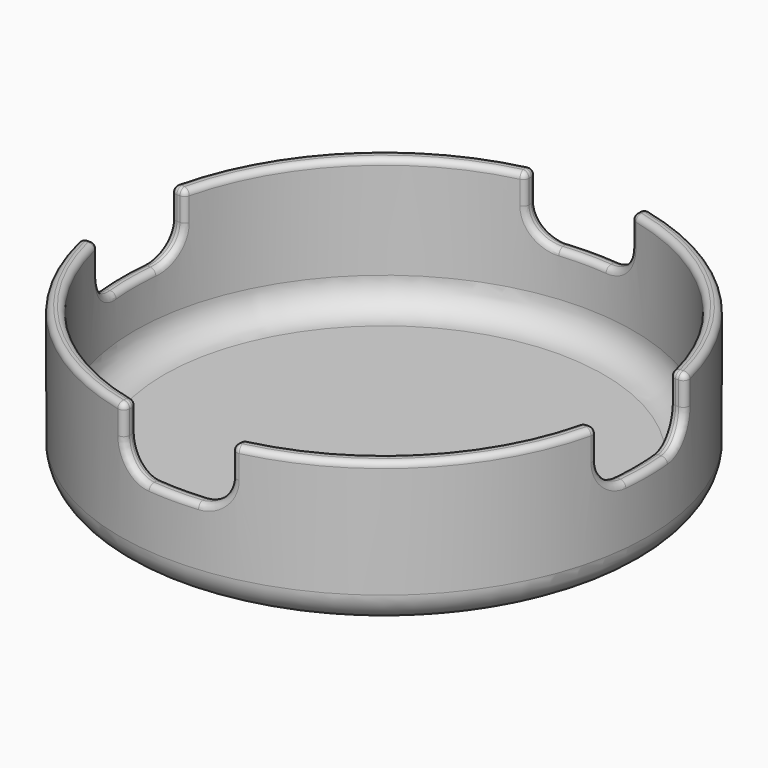
from build123d import *

# Parameters (mm, degrees)
F0_R     = 90
F1_DEPTH = 50
F2_T     = -5
F4_W     = 36.4760830998
F4_H     = 100.6174497306
F5_DEPTH = 20
F4_W_2   = 86.3933749497
F4_H_2   = 37.309370935
F6_R     = 10
F6_2_R   = 10
F6_3_R   = 10
F6_4_R   = 10
F8_R     = 10
F9_R     = 2
F10_R    = 10


with BuildPart() as f1:
    # F0 (on Top) → F1 (new body)
    with BuildSketch(Plane.XY):
        Circle(F0_R)
    extrude(amount=F1_DEPTH)

    # F2
    f2_openings = [f1.faces().sort_by_distance(p)[0] for p in [
        (0, 0, 50),
    ]]
    offset(amount=F2_T, openings=f2_openings)


with BuildPart() as f5:
    # F4 (on offset) → F5 (new body)
    with BuildSketch(Plane.XY.offset(50)):
        with Locations((0, -68.9634103328)):
            Rectangle(F4_W, F4_H)
    extrude(amount=-F5_DEPTH)

    # F6
    f6_edges = [f5.edges().sort_by_distance(p)[0] for p in [
        (18.238042, -68.96341, 30),
        (-18.238042, -68.96341, 30),
    ]]
    fillet(f6_edges, radius=F6_R)


with BuildPart() as f5b:
    # F4 (on offset) → F5, piece 2 (new body)
    with BuildSketch(Plane.XY.offset(50)):
        with Locations((61.4347290248, 0)):
            Rectangle(F4_W_2, F4_H_2)
    extrude(amount=-F5_DEPTH)

    # F6#4
    f6_4_edges = [f5b.edges().sort_by_distance(p)[0] for p in [
        (61.434729, 18.654685, 30),
        (61.434729, -18.654685, 30),
    ]]
    fillet(f6_4_edges, radius=F6_4_R)


with BuildPart() as f5c:
    # F4 (on offset) → F5, piece 3 (new body)
    with BuildSketch(Plane.XY.offset(50)):
        with Locations((0, 68.9634103328)):
            Rectangle(F4_W, F4_H)
    extrude(amount=-F5_DEPTH)

    # F6#3
    f6_3_edges = [f5c.edges().sort_by_distance(p)[0] for p in [
        (-18.238042, 68.96341, 30),
        (18.238042, 68.96341, 30),
    ]]
    fillet(f6_3_edges, radius=F6_3_R)


with BuildPart() as f5d:
    # F4 (on offset) → F5, piece 4 (new body)
    with BuildSketch(Plane.XY.offset(50)):
        with Locations((-61.4347290248, 0)):
            Rectangle(F4_W_2, F4_H_2)
    extrude(amount=-F5_DEPTH)

    # F6#2
    f6_2_edges = [f5d.edges().sort_by_distance(p)[0] for p in [
        (-61.434729, -18.654685, 30),
        (-61.434729, 18.654685, 30),
    ]]
    fillet(f6_2_edges, radius=F6_2_R)


with BuildPart() as f1_1:
    add(f1.part)

    # F7: cut F5c, F5d, F5b, F5
    add(f5c.part, mode=Mode.SUBTRACT)
    add(f5d.part, mode=Mode.SUBTRACT)
    add(f5b.part, mode=Mode.SUBTRACT)
    add(f5.part, mode=Mode.SUBTRACT)

    # F8
    f8_edges = [f1_1.edges().sort_by_distance(p)[0] for p in [
        (-90, 0, 0),
    ]]
    fillet(f8_edges, radius=F8_R)

    # F9
    f9_edges = [f1_1.edges().sort_by_distance(p)[0] for p in [
        (85.486577, 18.654685, 50),
        (59.952985, 60.254789, 50),
        (18.238042, 85.576514, 50),
        (63.488931, 63.789933, 50),
        (88.045458, 18.654685, 45),
        (82.927696, 18.654685, 45),
        (85.486577, 18.654685, 40),
        (83.535125, 15.712507, 32.91571),
        (87.070573, 8.654685, 30),
        (88.617562, 15.713932, 32.91713),
        (89.895665, 4.332365, 30),
        (89.895665, -4.332365, 30),
        (87.070573, -8.654685, 30),
        (84.889489, -4.332976, 30),
        (84.889489, 4.332976, 30),
        (85.486577, -18.654685, 40),
        (88.617562, -15.713932, 32.91713),
        (83.535125, -15.712507, 32.91571),
        (85.486577, -18.654685, 50),
        (88.045458, -18.654685, 45),
        (82.927696, -18.654685, 45),
        (63.488931, -63.789933, 50),
        (18.238042, -85.576514, 50),
        (59.952985, -60.254789, 50),
        (18.238042, -85.576514, 40),
        (15.296926, -83.612224, 32.91677),
        (8.238042, -87.111014, 30),
        (15.298236, -88.69027, 32.918076),
        (-8.238042, -87.111014, 30),
        (0, -85, 30),
        (0, -90, 30),
        (-18.238042, -85.576514, 40),
        (-15.298236, -88.69027, 32.918076),
        (-15.296926, -83.612224, 32.91677),
        (-18.238042, -85.576514, 50),
        (-18.238042, -88.132706, 45),
        (-18.238042, -83.020322, 45),
        (-63.488931, -63.789933, 50),
        (-85.486577, -18.654685, 50),
        (-59.952985, -60.254789, 50),
        (18.238042, -88.132706, 45),
        (18.238042, -83.020322, 45),
        (-88.045458, -18.654685, 45),
        (-82.927696, -18.654685, 45),
        (-85.486577, -18.654685, 40),
        (-83.535125, -15.712507, 32.91571),
        (-87.070573, -8.654685, 30),
        (-88.617562, -15.713932, 32.91713),
        (-90, 0, 30),
        (-87.070573, 8.654685, 30),
        (-85, 0, 30),
        (-85.486577, 18.654685, 40),
        (-88.617562, 15.713932, 32.91713),
        (-83.535125, 15.712507, 32.91571),
        (-85.486577, 18.654685, 50),
        (-88.045458, 18.654685, 45),
        (-82.927696, 18.654685, 45),
        (-18.238042, 85.576514, 50),
        (-59.952985, 60.254789, 50),
        (-63.488931, 63.789933, 50),
        (-18.238042, 85.576514, 40),
        (-15.296926, 83.612224, 32.91677),
        (-8.238042, 87.111014, 30),
        (-15.298236, 88.69027, 32.918076),
        (0, 90, 30),
        (8.238042, 87.111014, 30),
        (0, 85, 30),
        (-18.238042, 88.132706, 45),
        (-18.238042, 83.020322, 45),
        (18.238042, 85.576514, 40),
        (15.298236, 88.69027, 32.918076),
        (15.296926, 83.612224, 32.91677),
        (18.238042, 88.132706, 45),
        (18.238042, 83.020322, 45),
        (90, 0, 20),
        (-90, 0, 10),
    ]]
    fillet(f9_edges, radius=F9_R)

    # F10
    f10_edges = [f1_1.edges().sort_by_distance(p)[0] for p in [
        (-85, 0, 5),
    ]]
    fillet(f10_edges, radius=F10_R)


solid = f1_1.part
